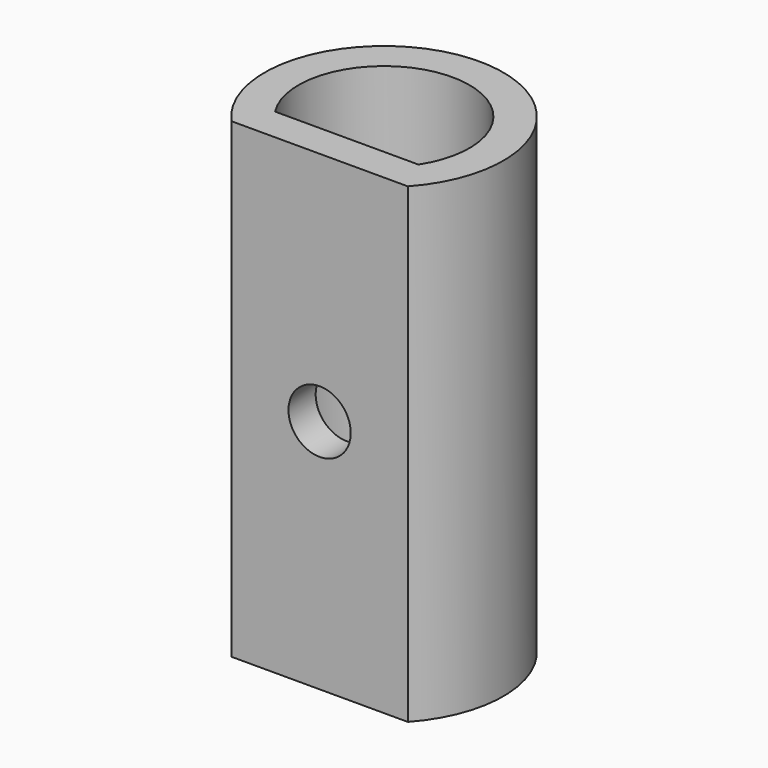
from build123d import *

# Parameters (mm, degrees)
F1_DEPTH = 25
F3_D     = 3.3
F3_DEPTH = 2
F3_TIP   = 0.9914200214


with BuildPart() as f1:
    # F0 (on Top) → F1 (new body)
    with BuildSketch(Plane.XY):
        with BuildLine():
            Line((-4.6761400443, -1.6786290068), (4.6761400443, -1.6786290068))
            ThreePointArc((4.6761400443, -1.6786290068), (0, 8.9213709932), (-4.6761400443, -1.6786290068))
        make_face()
        with BuildLine():
            Line((3.8, 0.1213709932), (-3.8, 0.1213709932))
            ThreePointArc((-3.8, 0.1213709932), (0, 7.1213709932), (3.8, 0.1213709932))
        make_face(mode=Mode.SUBTRACT)
    extrude(amount=F1_DEPTH)

    # F3
    with Locations(Plane.XZ.offset(1.6786290068)):
        with Locations((0, 12.5)):
            Hole(F3_D / 2, depth=F3_DEPTH)
            with Locations((0, 0, -(F3_DEPTH + F3_TIP / 2))):  # 118° drill point
                Cone(0, F3_D / 2, F3_TIP, mode=Mode.SUBTRACT)


solid = f1.part
